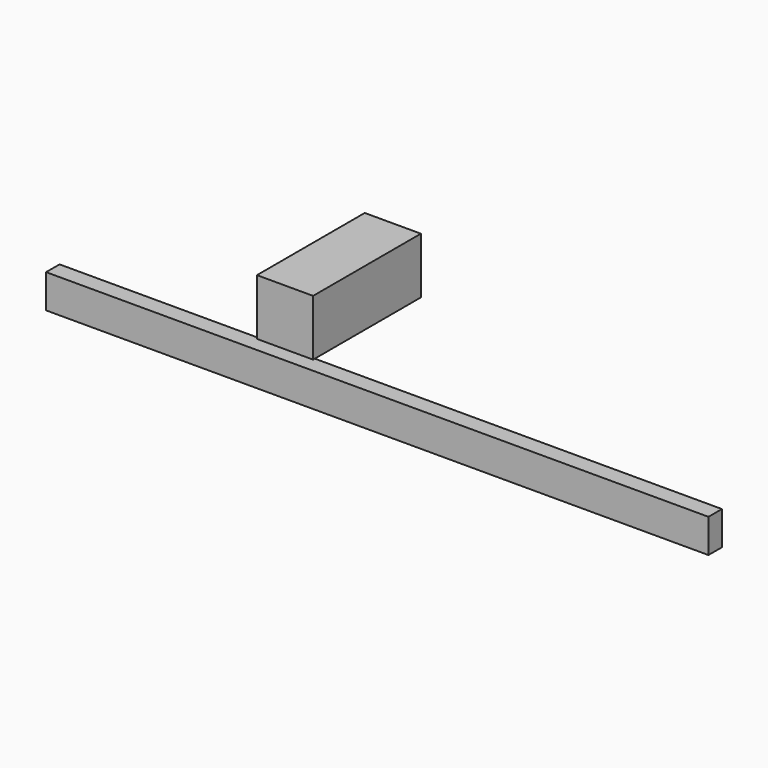
from build123d import *

# Parameters (mm, degrees)
F0_W     = 749.3
F0_H     = 38.1
F1_DEPTH = 19.05
F2_W     = 63.5
F2_H     = 63.5
F3_DEPTH = 152.4


with BuildPart() as f1:
    # F0 (on Front) → F1 (new body)
    with BuildSketch(Plane.XZ):
        Rectangle(F0_W, F0_H)
    extrude(amount=F1_DEPTH)


with BuildPart() as f3:
    # F2 (on Front) → F3 (new body)
    with BuildSketch(Plane.XZ):
        with Locations((2.333282, 150.778821)):
            Rectangle(F2_W, F2_H)
    extrude(amount=F3_DEPTH)


solid = Compound([f1.part, f3.part])
